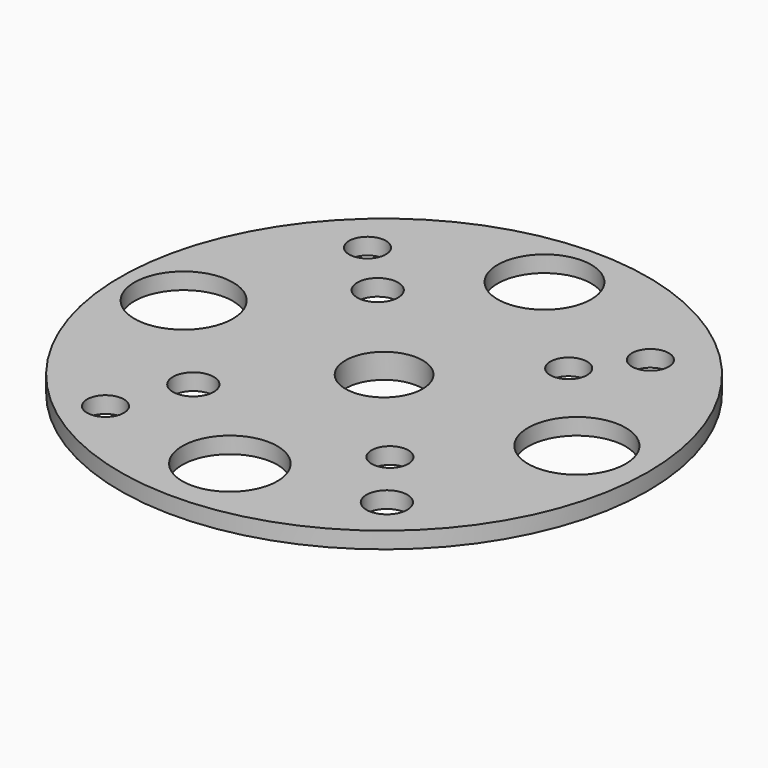
from build123d import *

# Parameters (mm, degrees)
F0_R      = 32.048134
F1_DEPTH  = 2
F2_R      = 5.685229
F3_DEPTH  = 25
F4_R      = 5.933428
F5_DEPTH  = 25
F6_R      = 5.76915
F7_DEPTH  = 25
F8_R      = 5.981832
F9_DEPTH  = 25
F11_DEPTH = 1
F12_R     = 4.686623
F13_DEPTH = 25
F14_R     = 2.480316
F14_R_2   = 2.235724
F15_DEPTH = 25
F16_R     = 2.235725
F16_R_2   = 2.235727
F17_DEPTH = 25
F18_R     = 2.235725
F18_R_2   = 2.480314
F19_DEPTH = 25
F20_R     = 2.480316
F20_R_2   = 2.235727
F21_DEPTH = 25


with BuildPart() as f1:
    # F0 (on Top) → F1 (new body)
    with BuildSketch(Plane.XY):
        Circle(F0_R)
    extrude(amount=-F1_DEPTH)

    # F2 (on face) → F3 (cut)
    with BuildSketch(Plane(origin=(0, 0, -2), x_dir=(1, 0, 0), z_dir=(0, 0, -1))):
        with Locations((0, -24.338091)):
            Circle(F2_R)
    extrude(amount=-F3_DEPTH, mode=Mode.SUBTRACT)

    # F4 (on face) → F5 (cut)
    with BuildSketch(Plane(origin=(0, 0, -2), x_dir=(1, 0, 0), z_dir=(0, 0, -1))):
        with Locations((23.407973, 0)):
            Circle(F4_R)
    extrude(amount=-F5_DEPTH, mode=Mode.SUBTRACT)

    # F6 (on face) → F7 (cut)
    with BuildSketch(Plane(origin=(0, 0, -2), x_dir=(1, 0, 0), z_dir=(0, 0, -1))):
        with Locations((0, 23.407973)):
            Circle(F6_R)
    extrude(amount=-F7_DEPTH, mode=Mode.SUBTRACT)

    # F8 (on face) → F9 (cut)
    with BuildSketch(Plane(origin=(0, 0, -2), x_dir=(1, 0, 0), z_dir=(0, 0, -1))):
        with Locations((-24.338093, 0)):
            Circle(F8_R)
    extrude(amount=-F9_DEPTH, mode=Mode.SUBTRACT)

    # F10 (on face) → F11 (join)
    with BuildSketch(Plane(origin=(0, 0, -2), x_dir=(1, 0, 0), z_dir=(0, 0, -1))):
        Polygon((-5.817543, -10.07628), (5.817543, -10.07628), (11.635086, 0), (5.817543, 10.07628), (-5.817543, 10.07628), (-11.635086, 0), align=None)
    extrude(amount=F11_DEPTH)

    # F12 (on face) → F13 (cut)
    with BuildSketch(Plane(origin=(0, 0, -3), x_dir=(1, 0, 0), z_dir=(0, 0, -1))):
        Circle(F12_R)
    extrude(amount=-F13_DEPTH, mode=Mode.SUBTRACT)

    # F14 (on face) → F15 (cut)
    with BuildSketch(Plane(origin=(0, 0, -2), x_dir=(1, 0, 0), z_dir=(0, 0, -1))):
        with Locations((-11.316436, -13.176673)):
            Circle(F14_R)
        with Locations((-17.517224, -19.377461)):
            Circle(F14_R_2)
    extrude(amount=-F15_DEPTH, mode=Mode.SUBTRACT)

    # F16 (on face) → F17 (cut)
    with BuildSketch(Plane(origin=(0, 0, -2), x_dir=(1, 0, 0), z_dir=(0, 0, -1))):
        with Locations((12.866635, -11.936517)):
            Circle(F16_R)
        with Locations((17.827265, -18.137304)):
            Circle(F16_R_2)
    extrude(amount=-F17_DEPTH, mode=Mode.SUBTRACT)

    # F18 (on face) → F19 (cut)
    with BuildSketch(Plane(origin=(0, 0, -2), x_dir=(1, 0, 0), z_dir=(0, 0, -1))):
        with Locations((11.006399, 12.866634)):
            Circle(F18_R)
        with Locations((16.587107, 20.30758)):
            Circle(F18_R_2)
    extrude(amount=-F19_DEPTH, mode=Mode.SUBTRACT)

    # F20 (on Top) → F21 (cut)
    with BuildSketch(Plane.XY):
        with Locations((-12.866635, -12.866634)):
            Circle(F20_R)
        with Locations((-16.587107, -21.547737)):
            Circle(F20_R_2)
    extrude(amount=-F21_DEPTH, mode=Mode.SUBTRACT)


solid = f1.part
